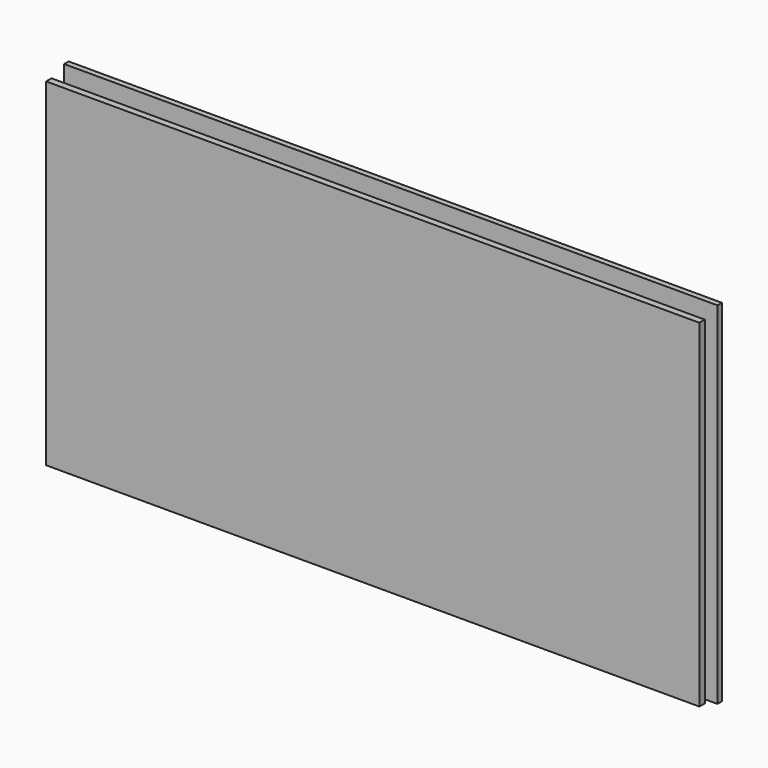
from build123d import *

# Parameters (mm, degrees)
F0_W     = 580
F0_H     = 300
F1_DEPTH = 6
F3_DEPTH = 5


with BuildPart() as f1:
    # F0 (on Front) → F1 (new body)
    with BuildSketch(Plane.XZ):
        with Locations((0, 44.536989)):
            Rectangle(F0_W, F0_H)
    extrude(amount=-F1_DEPTH)


with BuildPart() as f3:
    # F2 (on Front) → F3 (new body)
    with BuildSketch(Plane.XZ):
        with BuildLine():
            Line((-290, 200), (-290, -111.507473))
            Line((-290, -111.507473), (-230.044559, -111.507473))
            ThreePointArc((-230.044559, -111.507473), (-239.760813, -79.504217), (-254.793085, -49.627055))
            ThreePointArc((-254.793085, -49.627055), (-226.747943, 18.014499), (-232.820617, 90.987318))
            ThreePointArc((-232.820617, 90.987318), (-212.894832, 108.866152), (-203.14497, 133.798658))
            ThreePointArc((-203.14497, 133.798658), (-137.244526, 122.380709), (-73.167856, 141.548872))
            ThreePointArc((-73.167856, 141.548872), (-48.418056, 136.591491), (-26.002404, 148.196093))
            ThreePointArc((-26.002404, 148.196093), (-13.41977, 143.23514), (0, 141.548872))
            ThreePointArc((0, 141.548872), (13.41977, 143.23514), (26.002404, 148.196093))
            ThreePointArc((26.002404, 148.196093), (48.418056, 136.591491), (73.167856, 141.548872))
            ThreePointArc((73.167856, 141.548872), (137.244526, 122.380709), (203.14497, 133.798658))
            ThreePointArc((203.14497, 133.798658), (212.894832, 108.866152), (232.820617, 90.987318))
            ThreePointArc((232.820617, 90.987318), (226.747943, 18.014499), (254.793085, -49.627055))
            ThreePointArc((254.793085, -49.627055), (239.760813, -79.504217), (230.044559, -111.507473))
            Line((230.044559, -111.507473), (290, -111.507473))
            Line((290, -111.507473), (290, 200))
            Line((290, 200), (-290, 200))
        make_face()
    extrude(amount=-F3_DEPTH)


with BuildPart() as f3_1:
    # F4: moved
    add(f3.part.moved(Location((0, 20, 0))))


solid = Compound([f1.part, f3_1.part])
